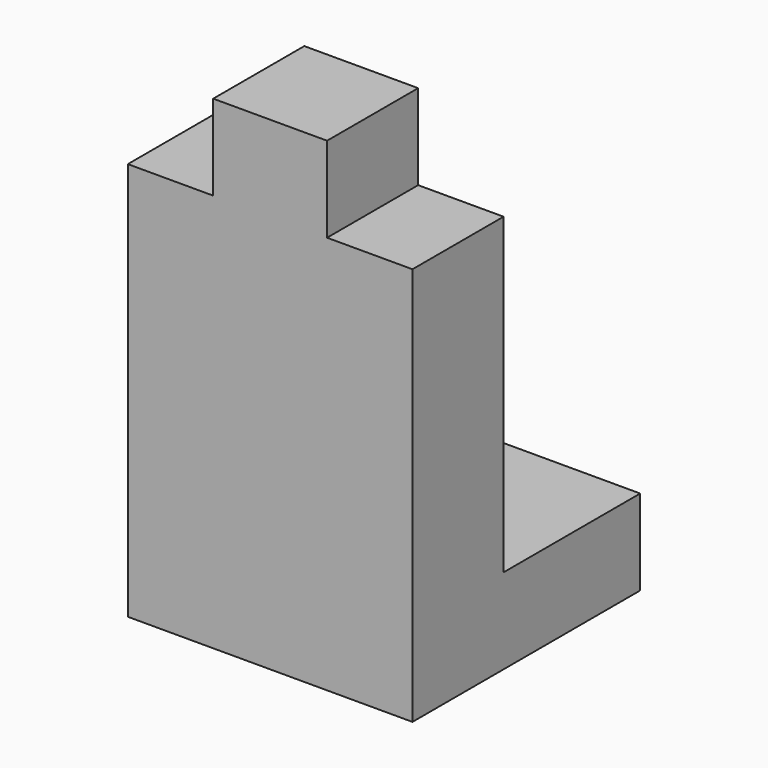
from build123d import *

# Parameters (mm, degrees)
F1_DEPTH = 20
F2_W     = 50
F2_H     = 15
F3_DEPTH = 30


with BuildPart() as f1:
    # F0 (on Front) → F1 (new body)
    with BuildSketch(Plane.XZ):
        Polygon((0, 70), (0, 0), (50, 0), (50, 70), (35, 70), (35, 85), (15, 85), (15, 70), align=None)
    extrude(amount=F1_DEPTH)

    # F2 (on face) → F3 (join)
    with BuildSketch(Plane(origin=(0, 0, 0), x_dir=(-1, 0, 0), z_dir=(0, 1, 0))):
        with Locations((-25, 7.5)):
            Rectangle(F2_W, F2_H)
    extrude(amount=F3_DEPTH)


solid = f1.part
